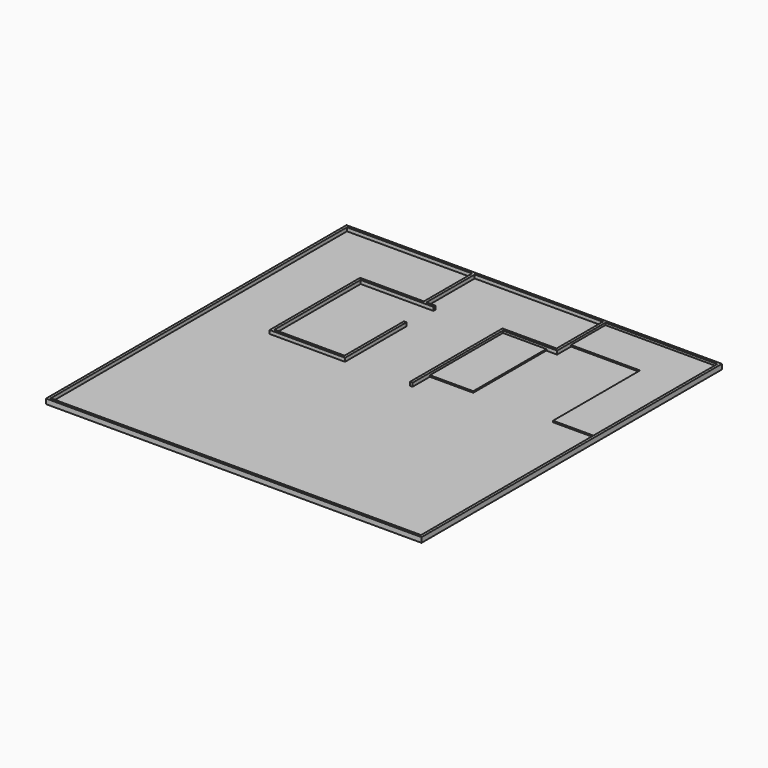
from build123d import *

# Parameters (mm, degrees)
F0_W     = 210
F0_H     = 210
F1_DEPTH = 0.8
F2_W     = 210
F2_H     = 210
F2_W_2   = 207.12
F2_H_2   = 207.12
F3_DEPTH = 2
F5_DEPTH = 2
F6_W     = 24.230769
F6_H     = 51.06
F7_DEPTH = 0.8


with BuildPart() as f1:
    # F0 (on Top) → F1 (new body)
    with BuildSketch(Plane.XY):
        with Locations((105, 105)):
            Rectangle(F0_W, F0_H)
    extrude(amount=F1_DEPTH)

    # F2 (on face) → F3 (join)
    with BuildSketch(Plane.XY.offset(0.8)):
        with Locations((105, 105)):
            Rectangle(F2_W, F2_H)
        with Locations((105, 105)):
            Rectangle(F2_W_2, F2_H_2, mode=Mode.SUBTRACT)
    extrude(amount=F3_DEPTH)

    # F4 (on face) → F5 (join, through all)
    with BuildSketch(Plane.XY.offset(0.8)):
        Polygon((145.963846, 174.812308), (145.963846, 208.56), (144.523846, 208.56), (144.523846, 176.252308), (114.235385, 176.252308), (114.235385, 111.636923), (115.675385, 111.636923), (115.675385, 174.812308), align=None)
        Polygon((72.889231, 174.812308), (72.889231, 208.56), (71.449231, 208.56), (71.449231, 174.812308), (35.766923, 174.812308), (35.766923, 111.636923), (77.889231, 111.636923), (77.889231, 154.598162), (76.449231, 154.598162), (76.449231, 113.076923), (37.206923, 113.076923), (37.206923, 173.372308), (77.889231, 173.372308), (77.889231, 174.812308), align=None)
    extrude(amount=F5_DEPTH)

    # F6 (on face) → F7 (join)
    with BuildSketch(Plane.XY.offset(0.8)):
        Polygon((208.56, 208.56), (145.963846, 208.56), (145.963846, 184.56), (184.56, 184.56), (184.56, 123.752308), (208.56, 123.752308), align=None)
        with Locations((127.790769, 149.282308)):
            Rectangle(F6_W, F6_H)
    extrude(amount=F7_DEPTH)


solid = f1.part
